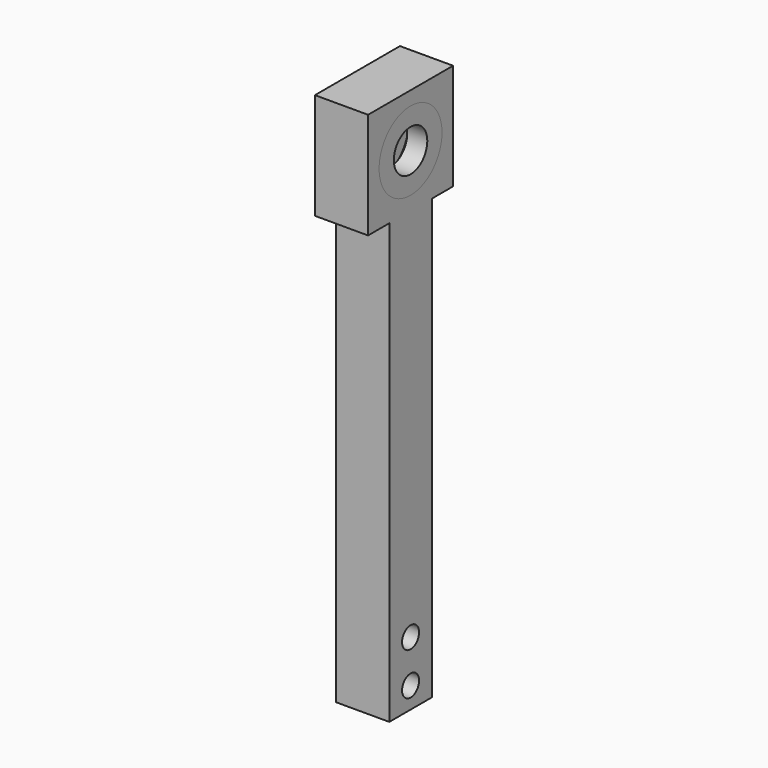
from build123d import *

# Parameters (mm, degrees)
F0_R     = 6.35
F0_R_2   = 23.5
F1_DEPTH = 31.75
F2_R     = 23.5
F2_R_2   = 12.5
F3_DEPTH = 12
F4_R     = 23.5
F4_R_2   = 12.5
F5_DEPTH = 12


with BuildPart() as f1:
    # F0 (on Right) → F1 (new body)
    with BuildSketch(Plane.YZ):
        Polygon((15.875, -31.75), (31.75, -31.75), (31.75, 31.75), (-31.75, 31.75), (-31.75, -31.75), (-15.875, -31.75), (-15.875, -294.132), (15.875, -294.132), align=None)
        with Locations((0, -281.432)):
            Circle(F0_R, mode=Mode.SUBTRACT)
        with Locations((0, -256.032)):
            Circle(F0_R, mode=Mode.SUBTRACT)
        Circle(F0_R_2, mode=Mode.SUBTRACT)
    extrude(amount=F1_DEPTH)


with BuildPart() as f3:
    # F2 (on face) → F3 (new body)
    with BuildSketch(Plane(origin=(0, 0, 0), x_dir=(0, -1, 0), z_dir=(-1, 0, 0))):
        Circle(F2_R)
        Circle(F2_R_2, mode=Mode.SUBTRACT)
    extrude(amount=-F3_DEPTH)


with BuildPart() as f5:
    # F4 (on face) → F5 (new body)
    with BuildSketch(Plane.YZ.offset(31.75)):
        Circle(F4_R)
        Circle(F4_R_2, mode=Mode.SUBTRACT)
    extrude(amount=-F5_DEPTH)


solid = Compound([f1.part, f3.part, f5.part])
